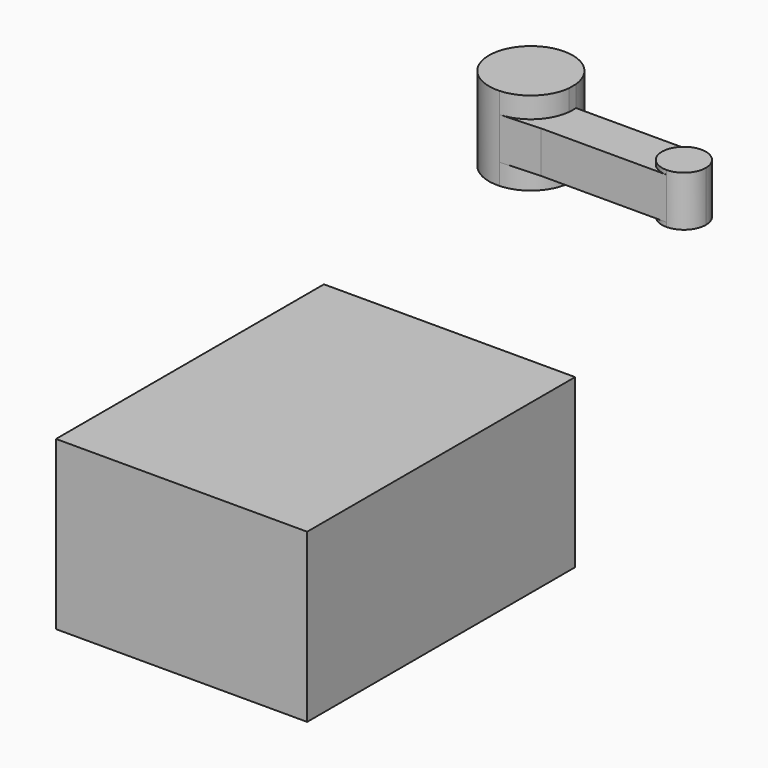
from build123d import *

# Parameters (mm, degrees)
F0_W     = 76.2
F0_H     = 50.8
F1_DEPTH = 101.6
F3_DEPTH = 25.4
F4_DEPTH = 19.05
F5_DEPTH = 6.35
F6_DEPTH = 5.08
F7_DEPTH = 5.08


with BuildPart() as f1:
    # F0 (on Front) → F1 (new body)
    with BuildSketch(Plane.XZ):
        with Locations((-38.1, -50.6448104508)):
            Rectangle(F0_W, F0_H)
    extrude(amount=F1_DEPTH)


with BuildPart() as f3:
    # F2 (on Top) → F3 (new body)
    with BuildSketch(Plane.XY):
        with BuildLine():
            Line((-32.9334767098, 38.8978572475), (-32.9334767098, 41.4728744043))
            ThreePointArc((-32.9334767098, 41.4728744043), (-55.2198972528, 48.4395618803), (-44.8795228111, 27.5040434626))
            ThreePointArc((-44.8795228111, 27.5040434626), (-36.8027194409, 30.9952045741), (-32.9334767098, 38.8978572475))
        make_face()
    extrude(amount=F3_DEPTH)


with BuildPart() as f3b:
    # F2 (on Top) → F3, piece 2 (new body)
    with BuildSketch(Plane.XY):
        with BuildLine():
            ThreePointArc((11.8266381753, 34.8127595193), (9.8759356889, 39.522171918), (5.1665232902, 41.4728744043))
            Line((5.1665232902, 41.4728744043), (5.1665232902, 28.1526446342))
            ThreePointArc((5.1665232902, 28.1526446342), (9.8759356889, 30.1033471206), (11.8266381753, 34.8127595193))
        make_face()
        with BuildLine():
            Line((5.1665232902, 28.1526446342), (5.1665232902, 41.4728744043))
            ThreePointArc((5.1665232902, 41.4728744043), (-1.4935915948, 34.8127595193), (5.1665232902, 28.1526446342))
        make_face()
    extrude(amount=F3_DEPTH)

    # F6 (cut): a face of the model
    f6_faces = [f3b.faces().sort_by_distance(p)[0] for p in [
        (5.1665232902, 34.8127595193, 25.4),
    ]]
    extrude(f6_faces, amount=-F6_DEPTH, mode=Mode.SUBTRACT)

    # F7 (cut): a face of the model
    f7_faces = [f3b.faces().sort_by_distance(p)[0] for p in [
        (5.1665232902, 34.8127595193, 0),
    ]]
    extrude(f7_faces, amount=-F7_DEPTH, mode=Mode.SUBTRACT)


with BuildPart() as f4:
    # F2 (on Top) → F4 (new body)
    with BuildSketch(Plane.XY):
        with BuildLine():
            ThreePointArc((-32.9334767098, 41.4728744043), (-32.8844136472, 40.8299508898), (-32.8680452287, 40.1853658259))
            ThreePointArc((-32.8680452287, 40.1853658259), (-32.8844136472, 39.540780762), (-32.9334767098, 38.8978572475))
            Line((-32.9334767098, 38.8978572475), (-32.9334767098, 28.1526446342))
            Line((-32.9334767098, 28.1526446342), (5.1665232902, 28.1526446342))
            ThreePointArc((5.1665232902, 28.1526446342), (-1.4935915948, 34.8127595193), (5.1665232902, 41.4728744043))
            Line((5.1665232902, 41.4728744043), (-32.9334767098, 41.4728744043))
        make_face()
        with BuildLine():
            Line((-32.9334767098, 28.1526446342), (-32.9334767098, 38.8978572475))
            ThreePointArc((-32.9334767098, 38.8978572475), (-36.8027194409, 30.9952045741), (-44.8795228111, 27.5040434626))
            Line((-44.8795228111, 27.5040434626), (-32.9334767098, 28.1526446342))
        make_face()
    extrude(amount=F4_DEPTH)

    # F5 (cut): a face of the model
    f5_faces = [f4.faces().sort_by_distance(p)[0] for p in [
        (-17.6782565044, 34.5436181954, 0),
    ]]
    extrude(f5_faces, amount=-F5_DEPTH, mode=Mode.SUBTRACT)


solid = Compound([f1.part, f3.part, f3b.part, f4.part])
